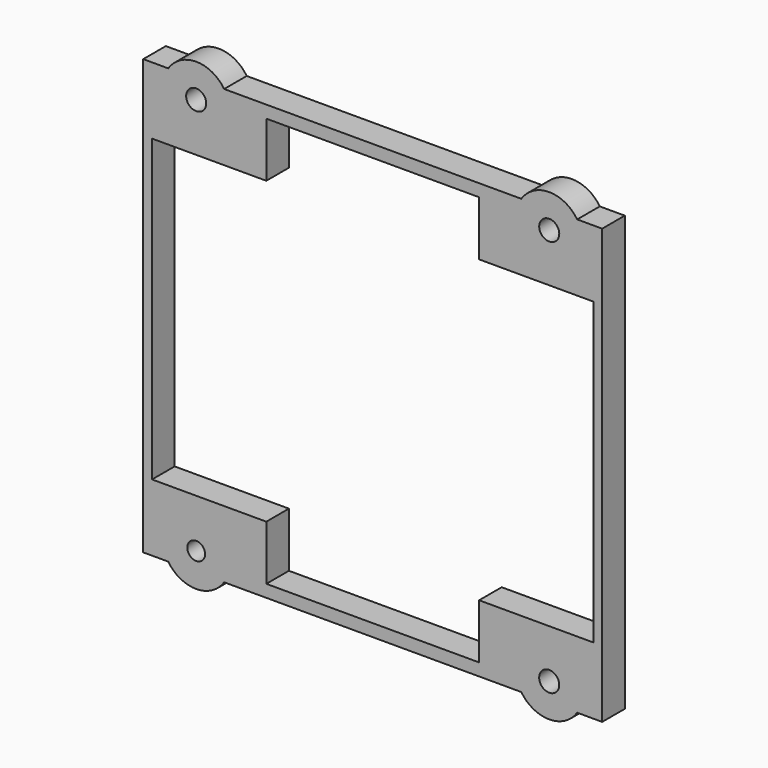
from build123d import *

# Parameters (mm, degrees)
F0_W     = 130
F0_H     = 123
F0_W_2   = 125
F0_H_2   = 85
F1_DEPTH = 8
F2_R     = 2.8435
F2_R_2   = 2.524436
F3_DEPTH = 25
F4_W     = 60.26917
F4_H     = 116
F5_DEPTH = 25
F6_R     = 9.5
F6_R_2   = 2.8435
F6_R_3   = 2.524436
F7_DEPTH = 8


with BuildPart() as f1:
    # F0 (on Front) → F1 (new body)
    with BuildSketch(Plane.XZ):
        Rectangle(F0_W, F0_H)
        Rectangle(F0_W_2, F0_H_2, mode=Mode.SUBTRACT)
    extrude(amount=F1_DEPTH)

    # F2 (on face) → F3 (cut)
    with BuildSketch(Plane.XZ.offset(8)):
        with Locations((-50, 56.25)):
            Circle(F2_R)
        with Locations((50, 56.25)):
            Circle(F2_R)
        with Locations((-50, -56.25)):
            Circle(F2_R_2)
        with Locations((50, -56.25)):
            Circle(F2_R)
    extrude(amount=-F3_DEPTH, mode=Mode.SUBTRACT)

    # F4 (on face) → F5 (cut)
    with BuildSketch(Plane.XZ.offset(8)):
        Rectangle(F4_W, F4_H)
    extrude(amount=-F5_DEPTH, mode=Mode.SUBTRACT)

    # F6 (on face) → F7 (join, through all)
    with BuildSketch(Plane(origin=(0, 0, 0), x_dir=(-1, 0, 0), z_dir=(0, 1, 0))):
        with Locations((-50, 56.25)):
            Circle(F6_R)
        with Locations((-50, 56.25)):
            Circle(F6_R_2, mode=Mode.SUBTRACT)
        with Locations((50, 56.25)):
            Circle(F6_R)
        with Locations((50, 56.25)):
            Circle(F6_R_2, mode=Mode.SUBTRACT)
        with Locations((-50, -56.25)):
            Circle(F6_R)
        with Locations((-50, -56.25)):
            Circle(F6_R_2, mode=Mode.SUBTRACT)
        with Locations((50, -56.25)):
            Circle(F6_R)
        with Locations((50, -56.25)):
            Circle(F6_R_3, mode=Mode.SUBTRACT)
    extrude(amount=-F7_DEPTH)


solid = f1.part
